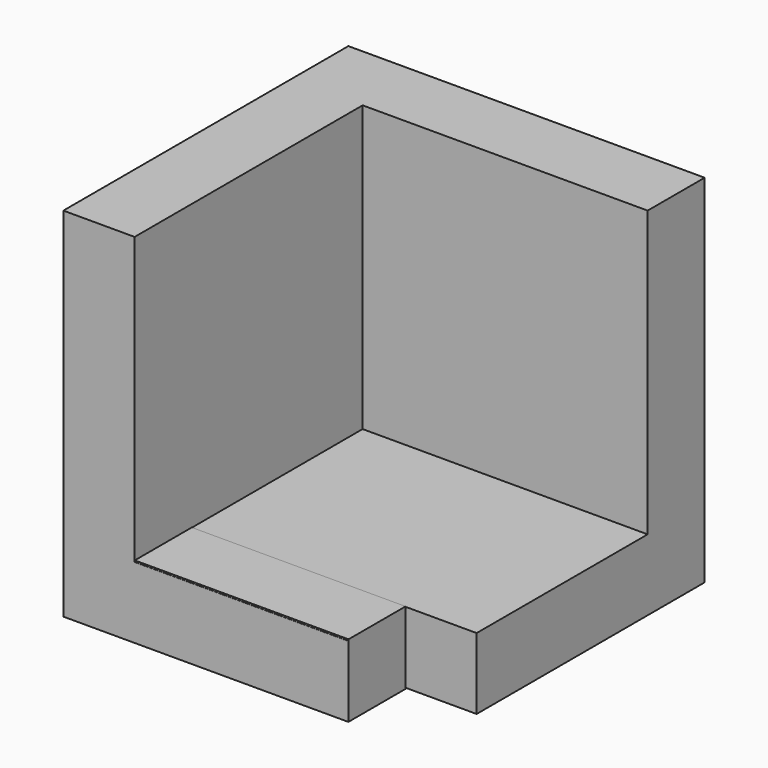
from build123d import *

# Parameters (mm, degrees)
F0_W     = 63.5
F0_H     = 63.5
F1_DEPTH = 12.7
F2_W     = 63.5
F2_H     = 63.5
F3_DEPTH = 12.7
F4_W     = 63.5
F4_H     = 12.7
F5_DEPTH = 50.8
F6_W     = 12.7
F6_H     = 12.7
F7_DEPTH = 50.8
F8_W     = 50.8
F8_H     = 12.7
F9_DEPTH = 63.5


with BuildPart() as f1:
    # F0 (on Front) → F1 (new body)
    with BuildSketch(Plane.XZ):
        with Locations((31.75, -31.75)):
            Rectangle(F0_W, F0_H)
    extrude(amount=F1_DEPTH)

    # F2 (on Right) → F3 (join)
    with BuildSketch(Plane.YZ):
        with Locations((-31.75, -31.75)):
            Rectangle(F2_W, F2_H)
    extrude(amount=F3_DEPTH)

    # F4 (on Front) → F5 (join)
    with BuildSketch(Plane.XZ):
        with Locations((31.75, -57.149136)):
            Rectangle(F4_W, F4_H)
    extrude(amount=F5_DEPTH)

    # F6 (on Right) → F7 (join)
    with BuildSketch(Plane.YZ):
        with Locations((-57.11578, -57.112239)):
            Rectangle(F6_W, F6_H)
    extrude(amount=F7_DEPTH)

    # F8 (on Front) → F9 (join)
    with BuildSketch(Plane.XZ):
        with Locations((25.4, -57.358216)):
            Rectangle(F8_W, F8_H)
    extrude(amount=F9_DEPTH)


solid = f1.part
